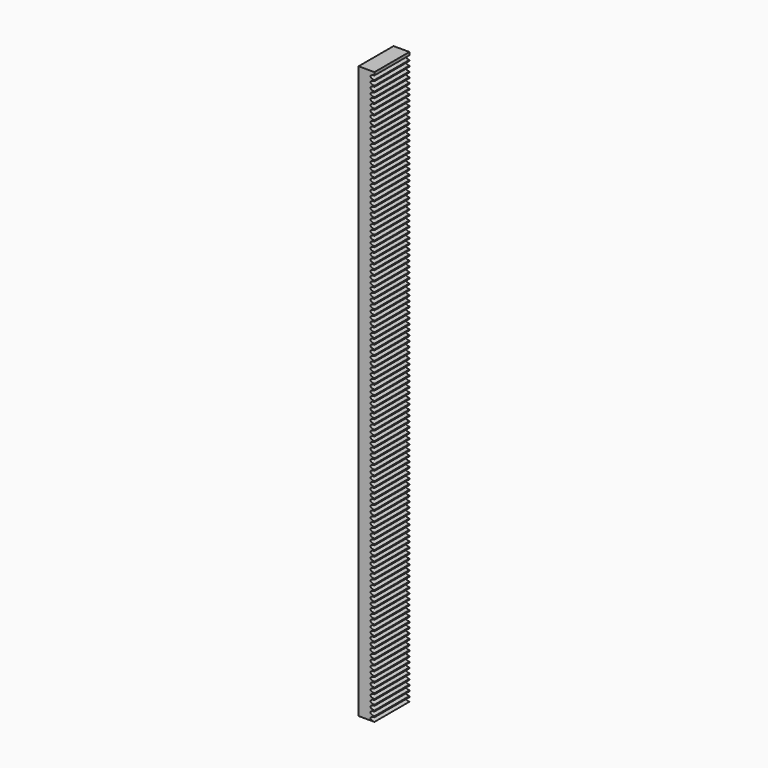
from build123d import *

# Parameters (mm, degrees)
F1_DEPTH = 21.9964


with BuildPart() as f1:
    # F0 (on Front) → F1 (new body)
    with BuildSketch(Plane.XZ):
        with BuildLine():
            Line((-36.130297509, 219.0961466489), (-44.130297509, 219.0961466489))
            Line((-44.130297509, 219.0961466489), (-44.130297509, -68.9038533511))
            Line((-44.130297509, -68.9038533511), (-36.130297509, -68.9038533511))
            add(Edge.make_bspline(
                [(-36.130297509, -66.8718533511), (-38.124197509, -66.8718533511), (-38.124197509, -67.8878533511), (-38.124197509, -68.9038533511), (-36.130297509, -68.9038533511)],
                knots=[1.5707963268, 1.5707963268, 1.5707963268, 3.1415926536, 3.1415926536, 4.7123889804, 4.7123889804, 4.7123889804], degree=2, weights=[1, 0.7071067812, 1, 0.7071067812, 1]))
            Line((-36.130297509, -66.8718533511), (-36.130297509, -66.3638533132))
            add(Edge.make_bspline(
                [(-36.130297509, -64.3318533132), (-38.124197509, -64.3318533132), (-38.124197509, -65.3478533132), (-38.124197509, -66.3638533132), (-36.130297509, -66.3638533132)],
                knots=[1.5707963268, 1.5707963268, 1.5707963268, 3.1415926536, 3.1415926536, 4.7123889804, 4.7123889804, 4.7123889804], degree=2, weights=[1, 0.7071067812, 1, 0.7071067812, 1]))
            Line((-36.130297509, -64.3318533132), (-36.130297509, -63.8238532754))
            add(Edge.make_bspline(
                [(-36.130297509, -61.7918532754), (-38.124197509, -61.7918532754), (-38.124197509, -62.8078532754), (-38.124197509, -63.8238532754), (-36.130297509, -63.8238532754)],
                knots=[1.5707963268, 1.5707963268, 1.5707963268, 3.1415926536, 3.1415926536, 4.7123889804, 4.7123889804, 4.7123889804], degree=2, weights=[1, 0.7071067812, 1, 0.7071067812, 1]))
            Line((-36.130297509, -61.7918532754), (-36.130297509, -61.2838532375))
            add(Edge.make_bspline(
                [(-36.130297509, -59.2518532375), (-38.124197509, -59.2518532375), (-38.124197509, -60.2678532375), (-38.124197509, -61.2838532375), (-36.130297509, -61.2838532375)],
                knots=[1.5707963268, 1.5707963268, 1.5707963268, 3.1415926536, 3.1415926536, 4.7123889804, 4.7123889804, 4.7123889804], degree=2, weights=[1, 0.7071067812, 1, 0.7071067812, 1]))
            Line((-36.130297509, -59.2518532375), (-36.130297509, -58.7438531997))
            add(Edge.make_bspline(
                [(-36.130297509, -56.7118531997), (-38.124197509, -56.7118531997), (-38.124197509, -57.7278531997), (-38.124197509, -58.7438531997), (-36.130297509, -58.7438531997)],
                knots=[1.5707963268, 1.5707963268, 1.5707963268, 3.1415926536, 3.1415926536, 4.7123889804, 4.7123889804, 4.7123889804], degree=2, weights=[1, 0.7071067812, 1, 0.7071067812, 1]))
            Line((-36.130297509, -56.7118531997), (-36.130297509, -56.2038531618))
            add(Edge.make_bspline(
                [(-36.130297509, -54.1718531618), (-38.124197509, -54.1718531618), (-38.124197509, -55.1878531618), (-38.124197509, -56.2038531618), (-36.130297509, -56.2038531618)],
                knots=[1.5707963268, 1.5707963268, 1.5707963268, 3.1415926536, 3.1415926536, 4.7123889804, 4.7123889804, 4.7123889804], degree=2, weights=[1, 0.7071067812, 1, 0.7071067812, 1]))
            Line((-36.130297509, -54.1718531618), (-36.130297509, -53.663853124))
            add(Edge.make_bspline(
                [(-36.130297509, -51.631853124), (-38.124197509, -51.631853124), (-38.124197509, -52.647853124), (-38.124197509, -53.663853124), (-36.130297509, -53.663853124)],
                knots=[1.5707963268, 1.5707963268, 1.5707963268, 3.1415926536, 3.1415926536, 4.7123889804, 4.7123889804, 4.7123889804], degree=2, weights=[1, 0.7071067812, 1, 0.7071067812, 1]))
            Line((-36.130297509, -51.631853124), (-36.130297509, -51.1238530861))
            add(Edge.make_bspline(
                [(-36.130297509, -49.0918530861), (-38.124197509, -49.0918530861), (-38.124197509, -50.1078530861), (-38.124197509, -51.1238530861), (-36.130297509, -51.1238530861)],
                knots=[1.5707963268, 1.5707963268, 1.5707963268, 3.1415926536, 3.1415926536, 4.7123889804, 4.7123889804, 4.7123889804], degree=2, weights=[1, 0.7071067812, 1, 0.7071067812, 1]))
            Line((-36.130297509, -49.0918530861), (-36.130297509, -48.5838530483))
            add(Edge.make_bspline(
                [(-36.130297509, -46.5518530483), (-38.124197509, -46.5518530483), (-38.124197509, -47.5678530483), (-38.124197509, -48.5838530483), (-36.130297509, -48.5838530483)],
                knots=[1.5707963268, 1.5707963268, 1.5707963268, 3.1415926536, 3.1415926536, 4.7123889804, 4.7123889804, 4.7123889804], degree=2, weights=[1, 0.7071067812, 1, 0.7071067812, 1]))
            Line((-36.130297509, -46.5518530483), (-36.130297509, -46.0438530104))
            add(Edge.make_bspline(
                [(-36.130297509, -44.0118530104), (-38.124197509, -44.0118530104), (-38.124197509, -45.0278530104), (-38.124197509, -46.0438530104), (-36.130297509, -46.0438530104)],
                knots=[1.5707963268, 1.5707963268, 1.5707963268, 3.1415926536, 3.1415926536, 4.7123889804, 4.7123889804, 4.7123889804], degree=2, weights=[1, 0.7071067812, 1, 0.7071067812, 1]))
            Line((-36.130297509, -44.0118530104), (-36.130297509, -43.5038529726))
            add(Edge.make_bspline(
                [(-36.130297509, -41.4718529726), (-38.124197509, -41.4718529726), (-38.124197509, -42.4878529726), (-38.124197509, -43.5038529726), (-36.130297509, -43.5038529726)],
                knots=[1.5707963268, 1.5707963268, 1.5707963268, 3.1415926536, 3.1415926536, 4.7123889804, 4.7123889804, 4.7123889804], degree=2, weights=[1, 0.7071067812, 1, 0.7071067812, 1]))
            Line((-36.130297509, -41.4718529726), (-36.130297509, -40.9638529347))
            add(Edge.make_bspline(
                [(-36.130297509, -38.9318529347), (-38.124197509, -38.9318529347), (-38.124197509, -39.9478529347), (-38.124197509, -40.9638529347), (-36.130297509, -40.9638529347)],
                knots=[1.5707963268, 1.5707963268, 1.5707963268, 3.1415926536, 3.1415926536, 4.7123889804, 4.7123889804, 4.7123889804], degree=2, weights=[1, 0.7071067812, 1, 0.7071067812, 1]))
            Line((-36.130297509, -38.9318529347), (-36.130297509, -38.4238528969))
            add(Edge.make_bspline(
                [(-36.130297509, -36.3918528969), (-38.124197509, -36.3918528969), (-38.124197509, -37.4078528969), (-38.124197509, -38.4238528969), (-36.130297509, -38.4238528969)],
                knots=[1.5707963268, 1.5707963268, 1.5707963268, 3.1415926536, 3.1415926536, 4.7123889804, 4.7123889804, 4.7123889804], degree=2, weights=[1, 0.7071067812, 1, 0.7071067812, 1]))
            Line((-36.130297509, -36.3918528969), (-36.130297509, -35.883852859))
            add(Edge.make_bspline(
                [(-36.130297509, -33.851852859), (-38.124197509, -33.851852859), (-38.124197509, -34.867852859), (-38.124197509, -35.883852859), (-36.130297509, -35.883852859)],
                knots=[1.5707963268, 1.5707963268, 1.5707963268, 3.1415926536, 3.1415926536, 4.7123889804, 4.7123889804, 4.7123889804], degree=2, weights=[1, 0.7071067812, 1, 0.7071067812, 1]))
            Line((-36.130297509, -33.851852859), (-36.130297509, -33.3438528212))
            add(Edge.make_bspline(
                [(-36.130297509, -31.3118528212), (-38.124197509, -31.3118528212), (-38.124197509, -32.3278528212), (-38.124197509, -33.3438528212), (-36.130297509, -33.3438528212)],
                knots=[1.5707963268, 1.5707963268, 1.5707963268, 3.1415926536, 3.1415926536, 4.7123889804, 4.7123889804, 4.7123889804], degree=2, weights=[1, 0.7071067812, 1, 0.7071067812, 1]))
            Line((-36.130297509, -31.3118528212), (-36.130297509, -30.8038527833))
            add(Edge.make_bspline(
                [(-36.130297509, -28.7718527833), (-38.124197509, -28.7718527833), (-38.124197509, -29.7878527833), (-38.124197509, -30.8038527833), (-36.130297509, -30.8038527833)],
                knots=[1.5707963268, 1.5707963268, 1.5707963268, 3.1415926536, 3.1415926536, 4.7123889804, 4.7123889804, 4.7123889804], degree=2, weights=[1, 0.7071067812, 1, 0.7071067812, 1]))
            Line((-36.130297509, -28.7718527833), (-36.130297509, -28.2638527455))
            add(Edge.make_bspline(
                [(-36.130297509, -26.2318527455), (-38.124197509, -26.2318527455), (-38.124197509, -27.2478527455), (-38.124197509, -28.2638527455), (-36.130297509, -28.2638527455)],
                knots=[1.5707963268, 1.5707963268, 1.5707963268, 3.1415926536, 3.1415926536, 4.7123889804, 4.7123889804, 4.7123889804], degree=2, weights=[1, 0.7071067812, 1, 0.7071067812, 1]))
            Line((-36.130297509, -26.2318527455), (-36.130297509, -25.7238527076))
            add(Edge.make_bspline(
                [(-36.130297509, -23.6918527076), (-38.124197509, -23.6918527076), (-38.124197509, -24.7078527076), (-38.124197509, -25.7238527076), (-36.130297509, -25.7238527076)],
                knots=[1.5707963268, 1.5707963268, 1.5707963268, 3.1415926536, 3.1415926536, 4.7123889804, 4.7123889804, 4.7123889804], degree=2, weights=[1, 0.7071067812, 1, 0.7071067812, 1]))
            Line((-36.130297509, -23.6918527076), (-36.130297509, -23.1838526698))
            add(Edge.make_bspline(
                [(-36.130297509, -21.1518526698), (-38.124197509, -21.1518526698), (-38.124197509, -22.1678526698), (-38.124197509, -23.1838526698), (-36.130297509, -23.1838526698)],
                knots=[1.5707963268, 1.5707963268, 1.5707963268, 3.1415926536, 3.1415926536, 4.7123889804, 4.7123889804, 4.7123889804], degree=2, weights=[1, 0.7071067812, 1, 0.7071067812, 1]))
            Line((-36.130297509, -21.1518526698), (-36.130297509, -20.6438526319))
            add(Edge.make_bspline(
                [(-36.130297509, -18.6118526319), (-38.124197509, -18.6118526319), (-38.124197509, -19.6278526319), (-38.124197509, -20.6438526319), (-36.130297509, -20.6438526319)],
                knots=[1.5707963268, 1.5707963268, 1.5707963268, 3.1415926536, 3.1415926536, 4.7123889804, 4.7123889804, 4.7123889804], degree=2, weights=[1, 0.7071067812, 1, 0.7071067812, 1]))
            Line((-36.130297509, -18.6118526319), (-36.130297509, -18.1038525941))
            add(Edge.make_bspline(
                [(-36.130297509, -16.0718525941), (-38.124197509, -16.0718525941), (-38.124197509, -17.0878525941), (-38.124197509, -18.1038525941), (-36.130297509, -18.1038525941)],
                knots=[1.5707963268, 1.5707963268, 1.5707963268, 3.1415926536, 3.1415926536, 4.7123889804, 4.7123889804, 4.7123889804], degree=2, weights=[1, 0.7071067812, 1, 0.7071067812, 1]))
            Line((-36.130297509, -16.0718525941), (-36.130297509, -15.5638525562))
            add(Edge.make_bspline(
                [(-36.130297509, -13.5318525562), (-38.124197509, -13.5318525562), (-38.124197509, -14.5478525562), (-38.124197509, -15.5638525562), (-36.130297509, -15.5638525562)],
                knots=[1.5707963268, 1.5707963268, 1.5707963268, 3.1415926536, 3.1415926536, 4.7123889804, 4.7123889804, 4.7123889804], degree=2, weights=[1, 0.7071067812, 1, 0.7071067812, 1]))
            Line((-36.130297509, -13.5318525562), (-36.130297509, -13.0238525184))
            add(Edge.make_bspline(
                [(-36.130297509, -10.9918525184), (-38.124197509, -10.9918525184), (-38.124197509, -12.0078525184), (-38.124197509, -13.0238525184), (-36.130297509, -13.0238525184)],
                knots=[1.5707963268, 1.5707963268, 1.5707963268, 3.1415926536, 3.1415926536, 4.7123889804, 4.7123889804, 4.7123889804], degree=2, weights=[1, 0.7071067812, 1, 0.7071067812, 1]))
            Line((-36.130297509, -10.9918525184), (-36.130297509, -10.4838524805))
            add(Edge.make_bspline(
                [(-36.130297509, -8.4518524805), (-38.124197509, -8.4518524805), (-38.124197509, -9.4678524805), (-38.124197509, -10.4838524805), (-36.130297509, -10.4838524805)],
                knots=[1.5707963268, 1.5707963268, 1.5707963268, 3.1415926536, 3.1415926536, 4.7123889804, 4.7123889804, 4.7123889804], degree=2, weights=[1, 0.7071067812, 1, 0.7071067812, 1]))
            Line((-36.130297509, -8.4518524805), (-36.130297509, -7.9438524427))
            add(Edge.make_bspline(
                [(-36.130297509, -5.9118524427), (-38.124197509, -5.9118524427), (-38.124197509, -6.9278524427), (-38.124197509, -7.9438524427), (-36.130297509, -7.9438524427)],
                knots=[1.5707963268, 1.5707963268, 1.5707963268, 3.1415926536, 3.1415926536, 4.7123889804, 4.7123889804, 4.7123889804], degree=2, weights=[1, 0.7071067812, 1, 0.7071067812, 1]))
            Line((-36.130297509, -5.9118524427), (-36.130297509, -5.4038524049))
            add(Edge.make_bspline(
                [(-36.130297509, -3.3718524049), (-38.124197509, -3.3718524049), (-38.124197509, -4.3878524049), (-38.124197509, -5.4038524049), (-36.130297509, -5.4038524049)],
                knots=[1.5707963268, 1.5707963268, 1.5707963268, 3.1415926536, 3.1415926536, 4.7123889804, 4.7123889804, 4.7123889804], degree=2, weights=[1, 0.7071067812, 1, 0.7071067812, 1]))
            Line((-36.130297509, -3.3718524049), (-36.130297509, -2.863852367))
            add(Edge.make_bspline(
                [(-36.130297509, -0.831852367), (-38.124197509, -0.831852367), (-38.124197509, -1.847852367), (-38.124197509, -2.863852367), (-36.130297509, -2.863852367)],
                knots=[1.5707963268, 1.5707963268, 1.5707963268, 3.1415926536, 3.1415926536, 4.7123889804, 4.7123889804, 4.7123889804], degree=2, weights=[1, 0.7071067812, 1, 0.7071067812, 1]))
            Line((-36.130297509, -0.831852367), (-36.130297509, -0.3238523292))
            add(Edge.make_bspline(
                [(-36.130297509, 1.7081476708), (-38.124197509, 1.7081476708), (-38.124197509, 0.6921476708), (-38.124197509, -0.3238523292), (-36.130297509, -0.3238523292)],
                knots=[1.5707963268, 1.5707963268, 1.5707963268, 3.1415926536, 3.1415926536, 4.7123889804, 4.7123889804, 4.7123889804], degree=2, weights=[1, 0.7071067812, 1, 0.7071067812, 1]))
            Line((-36.130297509, 1.7081476708), (-36.130297509, 2.2161477087))
            add(Edge.make_bspline(
                [(-36.130297509, 4.2481477087), (-38.124197509, 4.2481477087), (-38.124197509, 3.2321477087), (-38.124197509, 2.2161477087), (-36.130297509, 2.2161477087)],
                knots=[1.5707963268, 1.5707963268, 1.5707963268, 3.1415926536, 3.1415926536, 4.7123889804, 4.7123889804, 4.7123889804], degree=2, weights=[1, 0.7071067812, 1, 0.7071067812, 1]))
            Line((-36.130297509, 4.2481477087), (-36.130297509, 4.7561477465))
            add(Edge.make_bspline(
                [(-36.130297509, 6.7881477465), (-38.124197509, 6.7881477465), (-38.124197509, 5.7721477465), (-38.124197509, 4.7561477465), (-36.130297509, 4.7561477465)],
                knots=[1.5707963268, 1.5707963268, 1.5707963268, 3.1415926536, 3.1415926536, 4.7123889804, 4.7123889804, 4.7123889804], degree=2, weights=[1, 0.7071067812, 1, 0.7071067812, 1]))
            Line((-36.130297509, 6.7881477465), (-36.130297509, 7.2961477844))
            add(Edge.make_bspline(
                [(-36.130297509, 9.3281477844), (-38.124197509, 9.3281477844), (-38.124197509, 8.3121477844), (-38.124197509, 7.2961477844), (-36.130297509, 7.2961477844)],
                knots=[1.5707963268, 1.5707963268, 1.5707963268, 3.1415926536, 3.1415926536, 4.7123889804, 4.7123889804, 4.7123889804], degree=2, weights=[1, 0.7071067812, 1, 0.7071067812, 1]))
            Line((-36.130297509, 9.3281477844), (-36.130297509, 9.8361478222))
            add(Edge.make_bspline(
                [(-36.130297509, 11.8681478222), (-38.124197509, 11.8681478222), (-38.124197509, 10.8521478222), (-38.124197509, 9.8361478222), (-36.130297509, 9.8361478222)],
                knots=[1.5707963268, 1.5707963268, 1.5707963268, 3.1415926536, 3.1415926536, 4.7123889804, 4.7123889804, 4.7123889804], degree=2, weights=[1, 0.7071067812, 1, 0.7071067812, 1]))
            Line((-36.130297509, 11.8681478222), (-36.130297509, 12.3761478601))
            add(Edge.make_bspline(
                [(-36.130297509, 14.4081478601), (-38.124197509, 14.4081478601), (-38.124197509, 13.3921478601), (-38.124197509, 12.3761478601), (-36.130297509, 12.3761478601)],
                knots=[1.5707963268, 1.5707963268, 1.5707963268, 3.1415926536, 3.1415926536, 4.7123889804, 4.7123889804, 4.7123889804], degree=2, weights=[1, 0.7071067812, 1, 0.7071067812, 1]))
            Line((-36.130297509, 14.4081478601), (-36.130297509, 14.9161478979))
            add(Edge.make_bspline(
                [(-36.130297509, 16.9481478979), (-38.124197509, 16.9481478979), (-38.124197509, 15.9321478979), (-38.124197509, 14.9161478979), (-36.130297509, 14.9161478979)],
                knots=[1.5707963268, 1.5707963268, 1.5707963268, 3.1415926536, 3.1415926536, 4.7123889804, 4.7123889804, 4.7123889804], degree=2, weights=[1, 0.7071067812, 1, 0.7071067812, 1]))
            Line((-36.130297509, 16.9481478979), (-36.130297509, 17.4561479358))
            add(Edge.make_bspline(
                [(-36.130297509, 19.4881479358), (-38.124197509, 19.4881479358), (-38.124197509, 18.4721479358), (-38.124197509, 17.4561479358), (-36.130297509, 17.4561479358)],
                knots=[1.5707963268, 1.5707963268, 1.5707963268, 3.1415926536, 3.1415926536, 4.7123889804, 4.7123889804, 4.7123889804], degree=2, weights=[1, 0.7071067812, 1, 0.7071067812, 1]))
            Line((-36.130297509, 19.4881479358), (-36.130297509, 19.9961479736))
            add(Edge.make_bspline(
                [(-36.130297509, 22.0281479736), (-38.124197509, 22.0281479736), (-38.124197509, 21.0121479736), (-38.124197509, 19.9961479736), (-36.130297509, 19.9961479736)],
                knots=[1.5707963268, 1.5707963268, 1.5707963268, 3.1415926536, 3.1415926536, 4.7123889804, 4.7123889804, 4.7123889804], degree=2, weights=[1, 0.7071067812, 1, 0.7071067812, 1]))
            Line((-36.130297509, 22.0281479736), (-36.130297509, 22.5361480115))
            add(Edge.make_bspline(
                [(-36.130297509, 24.5681480115), (-38.124197509, 24.5681480115), (-38.124197509, 23.5521480115), (-38.124197509, 22.5361480115), (-36.130297509, 22.5361480115)],
                knots=[1.5707963268, 1.5707963268, 1.5707963268, 3.1415926536, 3.1415926536, 4.7123889804, 4.7123889804, 4.7123889804], degree=2, weights=[1, 0.7071067812, 1, 0.7071067812, 1]))
            Line((-36.130297509, 24.5681480115), (-36.130297509, 25.0761480493))
            add(Edge.make_bspline(
                [(-36.130297509, 27.1081480493), (-38.124197509, 27.1081480493), (-38.124197509, 26.0921480493), (-38.124197509, 25.0761480493), (-36.130297509, 25.0761480493)],
                knots=[1.5707963268, 1.5707963268, 1.5707963268, 3.1415926536, 3.1415926536, 4.7123889804, 4.7123889804, 4.7123889804], degree=2, weights=[1, 0.7071067812, 1, 0.7071067812, 1]))
            Line((-36.130297509, 27.1081480493), (-36.130297509, 27.6161480872))
            add(Edge.make_bspline(
                [(-36.130297509, 29.6481480872), (-38.124197509, 29.6481480872), (-38.124197509, 28.6321480872), (-38.124197509, 27.6161480872), (-36.130297509, 27.6161480872)],
                knots=[1.5707963268, 1.5707963268, 1.5707963268, 3.1415926536, 3.1415926536, 4.7123889804, 4.7123889804, 4.7123889804], degree=2, weights=[1, 0.7071067812, 1, 0.7071067812, 1]))
            Line((-36.130297509, 29.6481480872), (-36.130297509, 30.156148125))
            add(Edge.make_bspline(
                [(-36.130297509, 32.188148125), (-38.124197509, 32.188148125), (-38.124197509, 31.172148125), (-38.124197509, 30.156148125), (-36.130297509, 30.156148125)],
                knots=[1.5707963268, 1.5707963268, 1.5707963268, 3.1415926536, 3.1415926536, 4.7123889804, 4.7123889804, 4.7123889804], degree=2, weights=[1, 0.7071067812, 1, 0.7071067812, 1]))
            Line((-36.130297509, 32.188148125), (-36.130297509, 32.6961481629))
            add(Edge.make_bspline(
                [(-36.130297509, 34.7281481629), (-38.124197509, 34.7281481629), (-38.124197509, 33.7121481629), (-38.124197509, 32.6961481629), (-36.130297509, 32.6961481629)],
                knots=[1.5707963268, 1.5707963268, 1.5707963268, 3.1415926536, 3.1415926536, 4.7123889804, 4.7123889804, 4.7123889804], degree=2, weights=[1, 0.7071067812, 1, 0.7071067812, 1]))
            Line((-36.130297509, 34.7281481629), (-36.130297509, 35.2361482007))
            add(Edge.make_bspline(
                [(-36.130297509, 37.2681482007), (-38.124197509, 37.2681482007), (-38.124197509, 36.2521482007), (-38.124197509, 35.2361482007), (-36.130297509, 35.2361482007)],
                knots=[1.5707963268, 1.5707963268, 1.5707963268, 3.1415926536, 3.1415926536, 4.7123889804, 4.7123889804, 4.7123889804], degree=2, weights=[1, 0.7071067812, 1, 0.7071067812, 1]))
            Line((-36.130297509, 37.2681482007), (-36.130297509, 37.7761482386))
            add(Edge.make_bspline(
                [(-36.130297509, 39.8081482386), (-38.124197509, 39.8081482386), (-38.124197509, 38.7921482386), (-38.124197509, 37.7761482386), (-36.130297509, 37.7761482386)],
                knots=[1.5707963268, 1.5707963268, 1.5707963268, 3.1415926536, 3.1415926536, 4.7123889804, 4.7123889804, 4.7123889804], degree=2, weights=[1, 0.7071067812, 1, 0.7071067812, 1]))
            Line((-36.130297509, 39.8081482386), (-36.130297509, 40.3161482764))
            add(Edge.make_bspline(
                [(-36.130297509, 42.3481482764), (-38.124197509, 42.3481482764), (-38.124197509, 41.3321482764), (-38.124197509, 40.3161482764), (-36.130297509, 40.3161482764)],
                knots=[1.5707963268, 1.5707963268, 1.5707963268, 3.1415926536, 3.1415926536, 4.7123889804, 4.7123889804, 4.7123889804], degree=2, weights=[1, 0.7071067812, 1, 0.7071067812, 1]))
            Line((-36.130297509, 42.3481482764), (-36.130297509, 42.8561483143))
            add(Edge.make_bspline(
                [(-36.130297509, 44.8881483143), (-38.124197509, 44.8881483143), (-38.124197509, 43.8721483143), (-38.124197509, 42.8561483143), (-36.130297509, 42.8561483143)],
                knots=[1.5707963268, 1.5707963268, 1.5707963268, 3.1415926536, 3.1415926536, 4.7123889804, 4.7123889804, 4.7123889804], degree=2, weights=[1, 0.7071067812, 1, 0.7071067812, 1]))
            Line((-36.130297509, 44.8881483143), (-36.130297509, 45.3961483521))
            add(Edge.make_bspline(
                [(-36.130297509, 47.4281483521), (-38.124197509, 47.4281483521), (-38.124197509, 46.4121483521), (-38.124197509, 45.3961483521), (-36.130297509, 45.3961483521)],
                knots=[1.5707963268, 1.5707963268, 1.5707963268, 3.1415926536, 3.1415926536, 4.7123889804, 4.7123889804, 4.7123889804], degree=2, weights=[1, 0.7071067812, 1, 0.7071067812, 1]))
            Line((-36.130297509, 47.4281483521), (-36.130297509, 47.93614839))
            add(Edge.make_bspline(
                [(-36.130297509, 49.96814839), (-38.124197509, 49.96814839), (-38.124197509, 48.95214839), (-38.124197509, 47.93614839), (-36.130297509, 47.93614839)],
                knots=[1.5707963268, 1.5707963268, 1.5707963268, 3.1415926536, 3.1415926536, 4.7123889804, 4.7123889804, 4.7123889804], degree=2, weights=[1, 0.7071067812, 1, 0.7071067812, 1]))
            Line((-36.130297509, 49.96814839), (-36.130297509, 50.4761484278))
            add(Edge.make_bspline(
                [(-36.130297509, 52.5081484278), (-38.124197509, 52.5081484278), (-38.124197509, 51.4921484278), (-38.124197509, 50.4761484278), (-36.130297509, 50.4761484278)],
                knots=[1.5707963268, 1.5707963268, 1.5707963268, 3.1415926536, 3.1415926536, 4.7123889804, 4.7123889804, 4.7123889804], degree=2, weights=[1, 0.7071067812, 1, 0.7071067812, 1]))
            Line((-36.130297509, 52.5081484278), (-36.130297509, 53.0161484657))
            add(Edge.make_bspline(
                [(-36.130297509, 55.0481484657), (-38.124197509, 55.0481484657), (-38.124197509, 54.0321484657), (-38.124197509, 53.0161484657), (-36.130297509, 53.0161484657)],
                knots=[1.5707963268, 1.5707963268, 1.5707963268, 3.1415926536, 3.1415926536, 4.7123889804, 4.7123889804, 4.7123889804], degree=2, weights=[1, 0.7071067812, 1, 0.7071067812, 1]))
            Line((-36.130297509, 55.0481484657), (-36.130297509, 55.5561485035))
            add(Edge.make_bspline(
                [(-36.130297509, 57.5881485035), (-38.124197509, 57.5881485035), (-38.124197509, 56.5721485035), (-38.124197509, 55.5561485035), (-36.130297509, 55.5561485035)],
                knots=[1.5707963268, 1.5707963268, 1.5707963268, 3.1415926536, 3.1415926536, 4.7123889804, 4.7123889804, 4.7123889804], degree=2, weights=[1, 0.7071067812, 1, 0.7071067812, 1]))
            Line((-36.130297509, 57.5881485035), (-36.130297509, 58.0961485414))
            add(Edge.make_bspline(
                [(-36.130297509, 60.1281485414), (-38.124197509, 60.1281485414), (-38.124197509, 59.1121485414), (-38.124197509, 58.0961485414), (-36.130297509, 58.0961485414)],
                knots=[1.5707963268, 1.5707963268, 1.5707963268, 3.1415926536, 3.1415926536, 4.7123889804, 4.7123889804, 4.7123889804], degree=2, weights=[1, 0.7071067812, 1, 0.7071067812, 1]))
            Line((-36.130297509, 60.1281485414), (-36.130297509, 60.6361485792))
            add(Edge.make_bspline(
                [(-36.130297509, 62.6681485792), (-38.124197509, 62.6681485792), (-38.124197509, 61.6521485792), (-38.124197509, 60.6361485792), (-36.130297509, 60.6361485792)],
                knots=[1.5707963268, 1.5707963268, 1.5707963268, 3.1415926536, 3.1415926536, 4.7123889804, 4.7123889804, 4.7123889804], degree=2, weights=[1, 0.7071067812, 1, 0.7071067812, 1]))
            Line((-36.130297509, 62.6681485792), (-36.130297509, 63.1761486171))
            add(Edge.make_bspline(
                [(-36.130297509, 65.2081486171), (-38.124197509, 65.2081486171), (-38.124197509, 64.1921486171), (-38.124197509, 63.1761486171), (-36.130297509, 63.1761486171)],
                knots=[1.5707963268, 1.5707963268, 1.5707963268, 3.1415926536, 3.1415926536, 4.7123889804, 4.7123889804, 4.7123889804], degree=2, weights=[1, 0.7071067812, 1, 0.7071067812, 1]))
            Line((-36.130297509, 65.2081486171), (-36.130297509, 65.7161486549))
            add(Edge.make_bspline(
                [(-36.130297509, 67.7481486549), (-38.124197509, 67.7481486549), (-38.124197509, 66.7321486549), (-38.124197509, 65.7161486549), (-36.130297509, 65.7161486549)],
                knots=[1.5707963268, 1.5707963268, 1.5707963268, 3.1415926536, 3.1415926536, 4.7123889804, 4.7123889804, 4.7123889804], degree=2, weights=[1, 0.7071067812, 1, 0.7071067812, 1]))
            Line((-36.130297509, 67.7481486549), (-36.130297509, 68.2561486928))
            add(Edge.make_bspline(
                [(-36.130297509, 70.2881486928), (-38.124197509, 70.2881486928), (-38.124197509, 69.2721486928), (-38.124197509, 68.2561486928), (-36.130297509, 68.2561486928)],
                knots=[1.5707963268, 1.5707963268, 1.5707963268, 3.1415926536, 3.1415926536, 4.7123889804, 4.7123889804, 4.7123889804], degree=2, weights=[1, 0.7071067812, 1, 0.7071067812, 1]))
            Line((-36.130297509, 70.2881486928), (-36.130297509, 70.7961487306))
            add(Edge.make_bspline(
                [(-36.130297509, 72.8281487306), (-38.124197509, 72.8281487306), (-38.124197509, 71.8121487306), (-38.124197509, 70.7961487306), (-36.130297509, 70.7961487306)],
                knots=[1.5707963268, 1.5707963268, 1.5707963268, 3.1415926536, 3.1415926536, 4.7123889804, 4.7123889804, 4.7123889804], degree=2, weights=[1, 0.7071067812, 1, 0.7071067812, 1]))
            Line((-36.130297509, 72.8281487306), (-36.130297509, 73.3361487685))
            add(Edge.make_bspline(
                [(-36.130297509, 75.3681487685), (-38.124197509, 75.3681487685), (-38.124197509, 74.3521487685), (-38.124197509, 73.3361487685), (-36.130297509, 73.3361487685)],
                knots=[1.5707963268, 1.5707963268, 1.5707963268, 3.1415926536, 3.1415926536, 4.7123889804, 4.7123889804, 4.7123889804], degree=2, weights=[1, 0.7071067812, 1, 0.7071067812, 1]))
            Line((-36.130297509, 75.3681487685), (-36.130297509, 75.8761488063))
            add(Edge.make_bspline(
                [(-36.130297509, 77.9081488063), (-38.124197509, 77.9081488063), (-38.124197509, 76.8921488063), (-38.124197509, 75.8761488063), (-36.130297509, 75.8761488063)],
                knots=[1.5707963268, 1.5707963268, 1.5707963268, 3.1415926536, 3.1415926536, 4.7123889804, 4.7123889804, 4.7123889804], degree=2, weights=[1, 0.7071067812, 1, 0.7071067812, 1]))
            Line((-36.130297509, 77.9081488063), (-36.130297509, 78.4161488442))
            add(Edge.make_bspline(
                [(-36.130297509, 80.4481488442), (-38.124197509, 80.4481488442), (-38.124197509, 79.4321488442), (-38.124197509, 78.4161488442), (-36.130297509, 78.4161488442)],
                knots=[1.5707963268, 1.5707963268, 1.5707963268, 3.1415926536, 3.1415926536, 4.7123889804, 4.7123889804, 4.7123889804], degree=2, weights=[1, 0.7071067812, 1, 0.7071067812, 1]))
            Line((-36.130297509, 80.4481488442), (-36.130297509, 80.956148882))
            add(Edge.make_bspline(
                [(-36.130297509, 82.988148882), (-38.124197509, 82.988148882), (-38.124197509, 81.972148882), (-38.124197509, 80.956148882), (-36.130297509, 80.956148882)],
                knots=[1.5707963268, 1.5707963268, 1.5707963268, 3.1415926536, 3.1415926536, 4.7123889804, 4.7123889804, 4.7123889804], degree=2, weights=[1, 0.7071067812, 1, 0.7071067812, 1]))
            Line((-36.130297509, 82.988148882), (-36.130297509, 83.4961489199))
            add(Edge.make_bspline(
                [(-36.130297509, 85.5281489199), (-38.124197509, 85.5281489199), (-38.124197509, 84.5121489199), (-38.124197509, 83.4961489199), (-36.130297509, 83.4961489199)],
                knots=[1.5707963268, 1.5707963268, 1.5707963268, 3.1415926536, 3.1415926536, 4.7123889804, 4.7123889804, 4.7123889804], degree=2, weights=[1, 0.7071067812, 1, 0.7071067812, 1]))
            Line((-36.130297509, 85.5281489199), (-36.130297509, 86.0361489577))
            add(Edge.make_bspline(
                [(-36.130297509, 88.0681489577), (-38.124197509, 88.0681489577), (-38.124197509, 87.0521489577), (-38.124197509, 86.0361489577), (-36.130297509, 86.0361489577)],
                knots=[1.5707963268, 1.5707963268, 1.5707963268, 3.1415926536, 3.1415926536, 4.7123889804, 4.7123889804, 4.7123889804], degree=2, weights=[1, 0.7071067812, 1, 0.7071067812, 1]))
            Line((-36.130297509, 88.0681489577), (-36.130297509, 88.5761489956))
            add(Edge.make_bspline(
                [(-36.130297509, 90.6081489956), (-38.124197509, 90.6081489956), (-38.124197509, 89.5921489956), (-38.124197509, 88.5761489956), (-36.130297509, 88.5761489956)],
                knots=[1.5707963268, 1.5707963268, 1.5707963268, 3.1415926536, 3.1415926536, 4.7123889804, 4.7123889804, 4.7123889804], degree=2, weights=[1, 0.7071067812, 1, 0.7071067812, 1]))
            Line((-36.130297509, 90.6081489956), (-36.130297509, 91.1161490334))
            add(Edge.make_bspline(
                [(-36.130297509, 93.1481490334), (-38.124197509, 93.1481490334), (-38.124197509, 92.1321490334), (-38.124197509, 91.1161490334), (-36.130297509, 91.1161490334)],
                knots=[1.5707963268, 1.5707963268, 1.5707963268, 3.1415926536, 3.1415926536, 4.7123889804, 4.7123889804, 4.7123889804], degree=2, weights=[1, 0.7071067812, 1, 0.7071067812, 1]))
            Line((-36.130297509, 93.1481490334), (-36.130297509, 93.6561490713))
            add(Edge.make_bspline(
                [(-36.130297509, 95.6881490713), (-38.124197509, 95.6881490713), (-38.124197509, 94.6721490713), (-38.124197509, 93.6561490713), (-36.130297509, 93.6561490713)],
                knots=[1.5707963268, 1.5707963268, 1.5707963268, 3.1415926536, 3.1415926536, 4.7123889804, 4.7123889804, 4.7123889804], degree=2, weights=[1, 0.7071067812, 1, 0.7071067812, 1]))
            Line((-36.130297509, 95.6881490713), (-36.130297509, 96.1961491091))
            add(Edge.make_bspline(
                [(-36.130297509, 98.2281491091), (-38.124197509, 98.2281491091), (-38.124197509, 97.2121491091), (-38.124197509, 96.1961491091), (-36.130297509, 96.1961491091)],
                knots=[1.5707963268, 1.5707963268, 1.5707963268, 3.1415926536, 3.1415926536, 4.7123889804, 4.7123889804, 4.7123889804], degree=2, weights=[1, 0.7071067812, 1, 0.7071067812, 1]))
            Line((-36.130297509, 98.2281491091), (-36.130297509, 98.736149147))
            add(Edge.make_bspline(
                [(-36.130297509, 100.768149147), (-38.124197509, 100.768149147), (-38.124197509, 99.752149147), (-38.124197509, 98.736149147), (-36.130297509, 98.736149147)],
                knots=[1.5707963268, 1.5707963268, 1.5707963268, 3.1415926536, 3.1415926536, 4.7123889804, 4.7123889804, 4.7123889804], degree=2, weights=[1, 0.7071067812, 1, 0.7071067812, 1]))
            Line((-36.130297509, 100.768149147), (-36.130297509, 101.2761491848))
            add(Edge.make_bspline(
                [(-36.130297509, 103.3081491848), (-38.124197509, 103.3081491848), (-38.124197509, 102.2921491848), (-38.124197509, 101.2761491848), (-36.130297509, 101.2761491848)],
                knots=[1.5707963268, 1.5707963268, 1.5707963268, 3.1415926536, 3.1415926536, 4.7123889804, 4.7123889804, 4.7123889804], degree=2, weights=[1, 0.7071067812, 1, 0.7071067812, 1]))
            Line((-36.130297509, 103.3081491848), (-36.130297509, 103.8161492227))
            add(Edge.make_bspline(
                [(-36.130297509, 105.8481492227), (-38.124197509, 105.8481492227), (-38.124197509, 104.8321492227), (-38.124197509, 103.8161492227), (-36.130297509, 103.8161492227)],
                knots=[1.5707963268, 1.5707963268, 1.5707963268, 3.1415926536, 3.1415926536, 4.7123889804, 4.7123889804, 4.7123889804], degree=2, weights=[1, 0.7071067812, 1, 0.7071067812, 1]))
            Line((-36.130297509, 105.8481492227), (-36.130297509, 106.3561492605))
            add(Edge.make_bspline(
                [(-36.130297509, 108.3881492605), (-38.124197509, 108.3881492605), (-38.124197509, 107.3721492605), (-38.124197509, 106.3561492605), (-36.130297509, 106.3561492605)],
                knots=[1.5707963268, 1.5707963268, 1.5707963268, 3.1415926536, 3.1415926536, 4.7123889804, 4.7123889804, 4.7123889804], degree=2, weights=[1, 0.7071067812, 1, 0.7071067812, 1]))
            Line((-36.130297509, 108.3881492605), (-36.130297509, 108.8961492984))
            add(Edge.make_bspline(
                [(-36.130297509, 110.9281492984), (-38.124197509, 110.9281492984), (-38.124197509, 109.9121492984), (-38.124197509, 108.8961492984), (-36.130297509, 108.8961492984)],
                knots=[1.5707963268, 1.5707963268, 1.5707963268, 3.1415926536, 3.1415926536, 4.7123889804, 4.7123889804, 4.7123889804], degree=2, weights=[1, 0.7071067812, 1, 0.7071067812, 1]))
            Line((-36.130297509, 110.9281492984), (-36.130297509, 111.4361493362))
            add(Edge.make_bspline(
                [(-36.130297509, 113.4681493362), (-38.124197509, 113.4681493362), (-38.124197509, 112.4521493362), (-38.124197509, 111.4361493362), (-36.130297509, 111.4361493362)],
                knots=[1.5707963268, 1.5707963268, 1.5707963268, 3.1415926536, 3.1415926536, 4.7123889804, 4.7123889804, 4.7123889804], degree=2, weights=[1, 0.7071067812, 1, 0.7071067812, 1]))
            Line((-36.130297509, 113.4681493362), (-36.130297509, 113.976149374))
            add(Edge.make_bspline(
                [(-36.130297509, 116.008149374), (-38.124197509, 116.008149374), (-38.124197509, 114.992149374), (-38.124197509, 113.976149374), (-36.130297509, 113.976149374)],
                knots=[1.5707963268, 1.5707963268, 1.5707963268, 3.1415926536, 3.1415926536, 4.7123889804, 4.7123889804, 4.7123889804], degree=2, weights=[1, 0.7071067812, 1, 0.7071067812, 1]))
            Line((-36.130297509, 116.008149374), (-36.130297509, 116.5161494119))
            add(Edge.make_bspline(
                [(-36.130297509, 118.5481494119), (-38.124197509, 118.5481494119), (-38.124197509, 117.5321494119), (-38.124197509, 116.5161494119), (-36.130297509, 116.5161494119)],
                knots=[1.5707963268, 1.5707963268, 1.5707963268, 3.1415926536, 3.1415926536, 4.7123889804, 4.7123889804, 4.7123889804], degree=2, weights=[1, 0.7071067812, 1, 0.7071067812, 1]))
            Line((-36.130297509, 118.5481494119), (-36.130297509, 119.0561494497))
            add(Edge.make_bspline(
                [(-36.130297509, 121.0881494497), (-38.124197509, 121.0881494497), (-38.124197509, 120.0721494497), (-38.124197509, 119.0561494497), (-36.130297509, 119.0561494497)],
                knots=[1.5707963268, 1.5707963268, 1.5707963268, 3.1415926536, 3.1415926536, 4.7123889804, 4.7123889804, 4.7123889804], degree=2, weights=[1, 0.7071067812, 1, 0.7071067812, 1]))
            Line((-36.130297509, 121.0881494497), (-36.130297509, 121.5961494876))
            add(Edge.make_bspline(
                [(-36.130297509, 123.6281494876), (-38.124197509, 123.6281494876), (-38.124197509, 122.6121494876), (-38.124197509, 121.5961494876), (-36.130297509, 121.5961494876)],
                knots=[1.5707963268, 1.5707963268, 1.5707963268, 3.1415926536, 3.1415926536, 4.7123889804, 4.7123889804, 4.7123889804], degree=2, weights=[1, 0.7071067812, 1, 0.7071067812, 1]))
            Line((-36.130297509, 123.6281494876), (-36.130297509, 124.1361495254))
            add(Edge.make_bspline(
                [(-36.130297509, 126.1681495254), (-38.124197509, 126.1681495254), (-38.124197509, 125.1521495254), (-38.124197509, 124.1361495254), (-36.130297509, 124.1361495254)],
                knots=[1.5707963268, 1.5707963268, 1.5707963268, 3.1415926536, 3.1415926536, 4.7123889804, 4.7123889804, 4.7123889804], degree=2, weights=[1, 0.7071067812, 1, 0.7071067812, 1]))
            Line((-36.130297509, 126.1681495254), (-36.130297509, 126.6761495633))
            add(Edge.make_bspline(
                [(-36.130297509, 128.7081495633), (-38.124197509, 128.7081495633), (-38.124197509, 127.6921495633), (-38.124197509, 126.6761495633), (-36.130297509, 126.6761495633)],
                knots=[1.5707963268, 1.5707963268, 1.5707963268, 3.1415926536, 3.1415926536, 4.7123889804, 4.7123889804, 4.7123889804], degree=2, weights=[1, 0.7071067812, 1, 0.7071067812, 1]))
            Line((-36.130297509, 128.7081495633), (-36.130297509, 129.2161496011))
            add(Edge.make_bspline(
                [(-36.130297509, 131.2481496011), (-38.124197509, 131.2481496011), (-38.124197509, 130.2321496011), (-38.124197509, 129.2161496011), (-36.130297509, 129.2161496011)],
                knots=[1.5707963268, 1.5707963268, 1.5707963268, 3.1415926536, 3.1415926536, 4.7123889804, 4.7123889804, 4.7123889804], degree=2, weights=[1, 0.7071067812, 1, 0.7071067812, 1]))
            Line((-36.130297509, 131.2481496011), (-36.130297509, 131.756149639))
            add(Edge.make_bspline(
                [(-36.130297509, 133.788149639), (-38.124197509, 133.788149639), (-38.124197509, 132.772149639), (-38.124197509, 131.756149639), (-36.130297509, 131.756149639)],
                knots=[1.5707963268, 1.5707963268, 1.5707963268, 3.1415926536, 3.1415926536, 4.7123889804, 4.7123889804, 4.7123889804], degree=2, weights=[1, 0.7071067812, 1, 0.7071067812, 1]))
            Line((-36.130297509, 133.788149639), (-36.130297509, 134.2961496768))
            add(Edge.make_bspline(
                [(-36.130297509, 136.3281496768), (-38.124197509, 136.3281496768), (-38.124197509, 135.3121496768), (-38.124197509, 134.2961496768), (-36.130297509, 134.2961496768)],
                knots=[1.5707963268, 1.5707963268, 1.5707963268, 3.1415926536, 3.1415926536, 4.7123889804, 4.7123889804, 4.7123889804], degree=2, weights=[1, 0.7071067812, 1, 0.7071067812, 1]))
            Line((-36.130297509, 136.3281496768), (-36.130297509, 136.8361497147))
            add(Edge.make_bspline(
                [(-36.130297509, 138.8681497147), (-38.124197509, 138.8681497147), (-38.124197509, 137.8521497147), (-38.124197509, 136.8361497147), (-36.130297509, 136.8361497147)],
                knots=[1.5707963268, 1.5707963268, 1.5707963268, 3.1415926536, 3.1415926536, 4.7123889804, 4.7123889804, 4.7123889804], degree=2, weights=[1, 0.7071067812, 1, 0.7071067812, 1]))
            Line((-36.130297509, 138.8681497147), (-36.130297509, 139.3761497525))
            add(Edge.make_bspline(
                [(-36.130297509, 141.4081497525), (-38.124197509, 141.4081497525), (-38.124197509, 140.3921497525), (-38.124197509, 139.3761497525), (-36.130297509, 139.3761497525)],
                knots=[1.5707963268, 1.5707963268, 1.5707963268, 3.1415926536, 3.1415926536, 4.7123889804, 4.7123889804, 4.7123889804], degree=2, weights=[1, 0.7071067812, 1, 0.7071067812, 1]))
            Line((-36.130297509, 141.4081497525), (-36.130297509, 141.9161497904))
            add(Edge.make_bspline(
                [(-36.130297509, 143.9481497904), (-38.124197509, 143.9481497904), (-38.124197509, 142.9321497904), (-38.124197509, 141.9161497904), (-36.130297509, 141.9161497904)],
                knots=[1.5707963268, 1.5707963268, 1.5707963268, 3.1415926536, 3.1415926536, 4.7123889804, 4.7123889804, 4.7123889804], degree=2, weights=[1, 0.7071067812, 1, 0.7071067812, 1]))
            Line((-36.130297509, 143.9481497904), (-36.130297509, 144.4561498282))
            add(Edge.make_bspline(
                [(-36.130297509, 146.4881498282), (-38.124197509, 146.4881498282), (-38.124197509, 145.4721498282), (-38.124197509, 144.4561498282), (-36.130297509, 144.4561498282)],
                knots=[1.5707963268, 1.5707963268, 1.5707963268, 3.1415926536, 3.1415926536, 4.7123889804, 4.7123889804, 4.7123889804], degree=2, weights=[1, 0.7071067812, 1, 0.7071067812, 1]))
            Line((-36.130297509, 146.4881498282), (-36.130297509, 146.9961498661))
            add(Edge.make_bspline(
                [(-36.130297509, 149.0281498661), (-38.124197509, 149.0281498661), (-38.124197509, 148.0121498661), (-38.124197509, 146.9961498661), (-36.130297509, 146.9961498661)],
                knots=[1.5707963268, 1.5707963268, 1.5707963268, 3.1415926536, 3.1415926536, 4.7123889804, 4.7123889804, 4.7123889804], degree=2, weights=[1, 0.7071067812, 1, 0.7071067812, 1]))
            Line((-36.130297509, 149.0281498661), (-36.130297509, 149.5361499039))
            add(Edge.make_bspline(
                [(-36.130297509, 151.5681499039), (-38.124197509, 151.5681499039), (-38.124197509, 150.5521499039), (-38.124197509, 149.5361499039), (-36.130297509, 149.5361499039)],
                knots=[1.5707963268, 1.5707963268, 1.5707963268, 3.1415926536, 3.1415926536, 4.7123889804, 4.7123889804, 4.7123889804], degree=2, weights=[1, 0.7071067812, 1, 0.7071067812, 1]))
            Line((-36.130297509, 151.5681499039), (-36.130297509, 152.0761499418))
            add(Edge.make_bspline(
                [(-36.130297509, 154.1081499418), (-38.124197509, 154.1081499418), (-38.124197509, 153.0921499418), (-38.124197509, 152.0761499418), (-36.130297509, 152.0761499418)],
                knots=[1.5707963268, 1.5707963268, 1.5707963268, 3.1415926536, 3.1415926536, 4.7123889804, 4.7123889804, 4.7123889804], degree=2, weights=[1, 0.7071067812, 1, 0.7071067812, 1]))
            Line((-36.130297509, 154.1081499418), (-36.130297509, 154.6161499796))
            add(Edge.make_bspline(
                [(-36.130297509, 156.6481499796), (-38.124197509, 156.6481499796), (-38.124197509, 155.6321499796), (-38.124197509, 154.6161499796), (-36.130297509, 154.6161499796)],
                knots=[1.5707963268, 1.5707963268, 1.5707963268, 3.1415926536, 3.1415926536, 4.7123889804, 4.7123889804, 4.7123889804], degree=2, weights=[1, 0.7071067812, 1, 0.7071067812, 1]))
            Line((-36.130297509, 156.6481499796), (-36.130297509, 157.1561500175))
            add(Edge.make_bspline(
                [(-36.130297509, 159.1881500175), (-38.124197509, 159.1881500175), (-38.124197509, 158.1721500175), (-38.124197509, 157.1561500175), (-36.130297509, 157.1561500175)],
                knots=[1.5707963268, 1.5707963268, 1.5707963268, 3.1415926536, 3.1415926536, 4.7123889804, 4.7123889804, 4.7123889804], degree=2, weights=[1, 0.7071067812, 1, 0.7071067812, 1]))
            Line((-36.130297509, 159.1881500175), (-36.130297509, 159.6961500553))
            add(Edge.make_bspline(
                [(-36.130297509, 161.7281500553), (-38.124197509, 161.7281500553), (-38.124197509, 160.7121500553), (-38.124197509, 159.6961500553), (-36.130297509, 159.6961500553)],
                knots=[1.5707963268, 1.5707963268, 1.5707963268, 3.1415926536, 3.1415926536, 4.7123889804, 4.7123889804, 4.7123889804], degree=2, weights=[1, 0.7071067812, 1, 0.7071067812, 1]))
            Line((-36.130297509, 161.7281500553), (-36.130297509, 162.2361500932))
            add(Edge.make_bspline(
                [(-36.130297509, 164.2681500932), (-38.124197509, 164.2681500932), (-38.124197509, 163.2521500932), (-38.124197509, 162.2361500932), (-36.130297509, 162.2361500932)],
                knots=[1.5707963268, 1.5707963268, 1.5707963268, 3.1415926536, 3.1415926536, 4.7123889804, 4.7123889804, 4.7123889804], degree=2, weights=[1, 0.7071067812, 1, 0.7071067812, 1]))
            Line((-36.130297509, 164.2681500932), (-36.130297509, 164.776150131))
            add(Edge.make_bspline(
                [(-36.130297509, 166.808150131), (-38.124197509, 166.808150131), (-38.124197509, 165.792150131), (-38.124197509, 164.776150131), (-36.130297509, 164.776150131)],
                knots=[1.5707963268, 1.5707963268, 1.5707963268, 3.1415926536, 3.1415926536, 4.7123889804, 4.7123889804, 4.7123889804], degree=2, weights=[1, 0.7071067812, 1, 0.7071067812, 1]))
            Line((-36.130297509, 166.808150131), (-36.130297509, 167.3161501689))
            add(Edge.make_bspline(
                [(-36.130297509, 169.3481501689), (-38.124197509, 169.3481501689), (-38.124197509, 168.3321501689), (-38.124197509, 167.3161501689), (-36.130297509, 167.3161501689)],
                knots=[1.5707963268, 1.5707963268, 1.5707963268, 3.1415926536, 3.1415926536, 4.7123889804, 4.7123889804, 4.7123889804], degree=2, weights=[1, 0.7071067812, 1, 0.7071067812, 1]))
            Line((-36.130297509, 169.3481501689), (-36.130297509, 169.8561502067))
            add(Edge.make_bspline(
                [(-36.130297509, 171.8881502067), (-38.124197509, 171.8881502067), (-38.124197509, 170.8721502067), (-38.124197509, 169.8561502067), (-36.130297509, 169.8561502067)],
                knots=[1.5707963268, 1.5707963268, 1.5707963268, 3.1415926536, 3.1415926536, 4.7123889804, 4.7123889804, 4.7123889804], degree=2, weights=[1, 0.7071067812, 1, 0.7071067812, 1]))
            Line((-36.130297509, 171.8881502067), (-36.130297509, 172.3961502446))
            add(Edge.make_bspline(
                [(-36.130297509, 174.4281502446), (-38.124197509, 174.4281502446), (-38.124197509, 173.4121502446), (-38.124197509, 172.3961502446), (-36.130297509, 172.3961502446)],
                knots=[1.5707963268, 1.5707963268, 1.5707963268, 3.1415926536, 3.1415926536, 4.7123889804, 4.7123889804, 4.7123889804], degree=2, weights=[1, 0.7071067812, 1, 0.7071067812, 1]))
            Line((-36.130297509, 174.4281502446), (-36.130297509, 174.9361502824))
            add(Edge.make_bspline(
                [(-36.130297509, 176.9681502824), (-38.124197509, 176.9681502824), (-38.124197509, 175.9521502824), (-38.124197509, 174.9361502824), (-36.130297509, 174.9361502824)],
                knots=[1.5707963268, 1.5707963268, 1.5707963268, 3.1415926536, 3.1415926536, 4.7123889804, 4.7123889804, 4.7123889804], degree=2, weights=[1, 0.7071067812, 1, 0.7071067812, 1]))
            Line((-36.130297509, 176.9681502824), (-36.130297509, 177.4761503203))
            add(Edge.make_bspline(
                [(-36.130297509, 179.5081503203), (-38.124197509, 179.5081503203), (-38.124197509, 178.4921503203), (-38.124197509, 177.4761503203), (-36.130297509, 177.4761503203)],
                knots=[1.5707963268, 1.5707963268, 1.5707963268, 3.1415926536, 3.1415926536, 4.7123889804, 4.7123889804, 4.7123889804], degree=2, weights=[1, 0.7071067812, 1, 0.7071067812, 1]))
            Line((-36.130297509, 179.5081503203), (-36.130297509, 180.0161503581))
            add(Edge.make_bspline(
                [(-36.130297509, 182.0481503581), (-38.124197509, 182.0481503581), (-38.124197509, 181.0321503581), (-38.124197509, 180.0161503581), (-36.130297509, 180.0161503581)],
                knots=[1.5707963268, 1.5707963268, 1.5707963268, 3.1415926536, 3.1415926536, 4.7123889804, 4.7123889804, 4.7123889804], degree=2, weights=[1, 0.7071067812, 1, 0.7071067812, 1]))
            Line((-36.130297509, 182.0481503581), (-36.130297509, 182.556150396))
            add(Edge.make_bspline(
                [(-36.130297509, 184.588150396), (-38.124197509, 184.588150396), (-38.124197509, 183.572150396), (-38.124197509, 182.556150396), (-36.130297509, 182.556150396)],
                knots=[1.5707963268, 1.5707963268, 1.5707963268, 3.1415926536, 3.1415926536, 4.7123889804, 4.7123889804, 4.7123889804], degree=2, weights=[1, 0.7071067812, 1, 0.7071067812, 1]))
            Line((-36.130297509, 184.588150396), (-36.130297509, 185.0961504338))
            add(Edge.make_bspline(
                [(-36.130297509, 187.1281504338), (-38.124197509, 187.1281504338), (-38.124197509, 186.1121504338), (-38.124197509, 185.0961504338), (-36.130297509, 185.0961504338)],
                knots=[1.5707963268, 1.5707963268, 1.5707963268, 3.1415926536, 3.1415926536, 4.7123889804, 4.7123889804, 4.7123889804], degree=2, weights=[1, 0.7071067812, 1, 0.7071067812, 1]))
            Line((-36.130297509, 187.1281504338), (-36.130297509, 187.6361504717))
            add(Edge.make_bspline(
                [(-36.130297509, 189.6681504717), (-38.124197509, 189.6681504717), (-38.124197509, 188.6521504717), (-38.124197509, 187.6361504717), (-36.130297509, 187.6361504717)],
                knots=[1.5707963268, 1.5707963268, 1.5707963268, 3.1415926536, 3.1415926536, 4.7123889804, 4.7123889804, 4.7123889804], degree=2, weights=[1, 0.7071067812, 1, 0.7071067812, 1]))
            Line((-36.130297509, 189.6681504717), (-36.130297509, 190.1761505095))
            add(Edge.make_bspline(
                [(-36.130297509, 192.2081505095), (-38.124197509, 192.2081505095), (-38.124197509, 191.1921505095), (-38.124197509, 190.1761505095), (-36.130297509, 190.1761505095)],
                knots=[1.5707963268, 1.5707963268, 1.5707963268, 3.1415926536, 3.1415926536, 4.7123889804, 4.7123889804, 4.7123889804], degree=2, weights=[1, 0.7071067812, 1, 0.7071067812, 1]))
            Line((-36.130297509, 192.2081505095), (-36.130297509, 192.7161505474))
            add(Edge.make_bspline(
                [(-36.130297509, 194.7481505474), (-38.124197509, 194.7481505474), (-38.124197509, 193.7321505474), (-38.124197509, 192.7161505474), (-36.130297509, 192.7161505474)],
                knots=[1.5707963268, 1.5707963268, 1.5707963268, 3.1415926536, 3.1415926536, 4.7123889804, 4.7123889804, 4.7123889804], degree=2, weights=[1, 0.7071067812, 1, 0.7071067812, 1]))
            Line((-36.130297509, 194.7481505474), (-36.130297509, 195.2561505852))
            add(Edge.make_bspline(
                [(-36.130297509, 197.2881505852), (-38.124197509, 197.2881505852), (-38.124197509, 196.2721505852), (-38.124197509, 195.2561505852), (-36.130297509, 195.2561505852)],
                knots=[1.5707963268, 1.5707963268, 1.5707963268, 3.1415926536, 3.1415926536, 4.7123889804, 4.7123889804, 4.7123889804], degree=2, weights=[1, 0.7071067812, 1, 0.7071067812, 1]))
            Line((-36.130297509, 197.2881505852), (-36.130297509, 197.7961506231))
            add(Edge.make_bspline(
                [(-36.130297509, 199.8281506231), (-38.124197509, 199.8281506231), (-38.124197509, 198.8121506231), (-38.124197509, 197.7961506231), (-36.130297509, 197.7961506231)],
                knots=[1.5707963268, 1.5707963268, 1.5707963268, 3.1415926536, 3.1415926536, 4.7123889804, 4.7123889804, 4.7123889804], degree=2, weights=[1, 0.7071067812, 1, 0.7071067812, 1]))
            Line((-36.130297509, 199.8281506231), (-36.130297509, 200.3361506609))
            add(Edge.make_bspline(
                [(-36.130297509, 202.3681506609), (-38.124197509, 202.3681506609), (-38.124197509, 201.3521506609), (-38.124197509, 200.3361506609), (-36.130297509, 200.3361506609)],
                knots=[1.5707963268, 1.5707963268, 1.5707963268, 3.1415926536, 3.1415926536, 4.7123889804, 4.7123889804, 4.7123889804], degree=2, weights=[1, 0.7071067812, 1, 0.7071067812, 1]))
            Line((-36.130297509, 202.3681506609), (-36.130297509, 202.8761506988))
            add(Edge.make_bspline(
                [(-36.130297509, 204.9081506988), (-38.124197509, 204.9081506988), (-38.124197509, 203.8921506988), (-38.124197509, 202.8761506988), (-36.130297509, 202.8761506988)],
                knots=[1.5707963268, 1.5707963268, 1.5707963268, 3.1415926536, 3.1415926536, 4.7123889804, 4.7123889804, 4.7123889804], degree=2, weights=[1, 0.7071067812, 1, 0.7071067812, 1]))
            Line((-36.130297509, 204.9081506988), (-36.130297509, 205.4161507366))
            add(Edge.make_bspline(
                [(-36.130297509, 207.4481507366), (-38.124197509, 207.4481507366), (-38.124197509, 206.4321507366), (-38.124197509, 205.4161507366), (-36.130297509, 205.4161507366)],
                knots=[1.5707963268, 1.5707963268, 1.5707963268, 3.1415926536, 3.1415926536, 4.7123889804, 4.7123889804, 4.7123889804], degree=2, weights=[1, 0.7071067812, 1, 0.7071067812, 1]))
            Line((-36.130297509, 207.4481507366), (-36.130297509, 207.9561507745))
            add(Edge.make_bspline(
                [(-36.130297509, 209.9881507745), (-38.124197509, 209.9881507745), (-38.124197509, 208.9721507745), (-38.124197509, 207.9561507745), (-36.130297509, 207.9561507745)],
                knots=[1.5707963268, 1.5707963268, 1.5707963268, 3.1415926536, 3.1415926536, 4.7123889804, 4.7123889804, 4.7123889804], degree=2, weights=[1, 0.7071067812, 1, 0.7071067812, 1]))
            Line((-36.130297509, 209.9881507745), (-36.130297509, 210.4961508123))
            add(Edge.make_bspline(
                [(-36.130297509, 212.5281508123), (-38.124197509, 212.5281508123), (-38.124197509, 211.5121508123), (-38.124197509, 210.4961508123), (-36.130297509, 210.4961508123)],
                knots=[1.5707963268, 1.5707963268, 1.5707963268, 3.1415926536, 3.1415926536, 4.7123889804, 4.7123889804, 4.7123889804], degree=2, weights=[1, 0.7071067812, 1, 0.7071067812, 1]))
            Line((-36.130297509, 212.5281508123), (-36.130297509, 213.0361508502))
            add(Edge.make_bspline(
                [(-36.130297509, 215.0681508502), (-38.124197509, 215.0681508502), (-38.124197509, 214.0521508502), (-38.124197509, 213.0361508502), (-36.130297509, 213.0361508502)],
                knots=[1.5707963268, 1.5707963268, 1.5707963268, 3.1415926536, 3.1415926536, 4.7123889804, 4.7123889804, 4.7123889804], degree=2, weights=[1, 0.7071067812, 1, 0.7071067812, 1]))
            Line((-36.130297509, 215.0681508502), (-36.130297509, 215.576150888))
            add(Edge.make_bspline(
                [(-36.130297509, 217.608150888), (-38.124197509, 217.608150888), (-38.124197509, 216.592150888), (-38.124197509, 215.576150888), (-36.130297509, 215.576150888)],
                knots=[1.5707963268, 1.5707963268, 1.5707963268, 3.1415926536, 3.1415926536, 4.7123889804, 4.7123889804, 4.7123889804], degree=2, weights=[1, 0.7071067812, 1, 0.7071067812, 1]))
            Line((-36.130297509, 217.608150888), (-36.130297509, 219.0961466489))
        make_face()
    extrude(amount=-F1_DEPTH)


solid = f1.part
